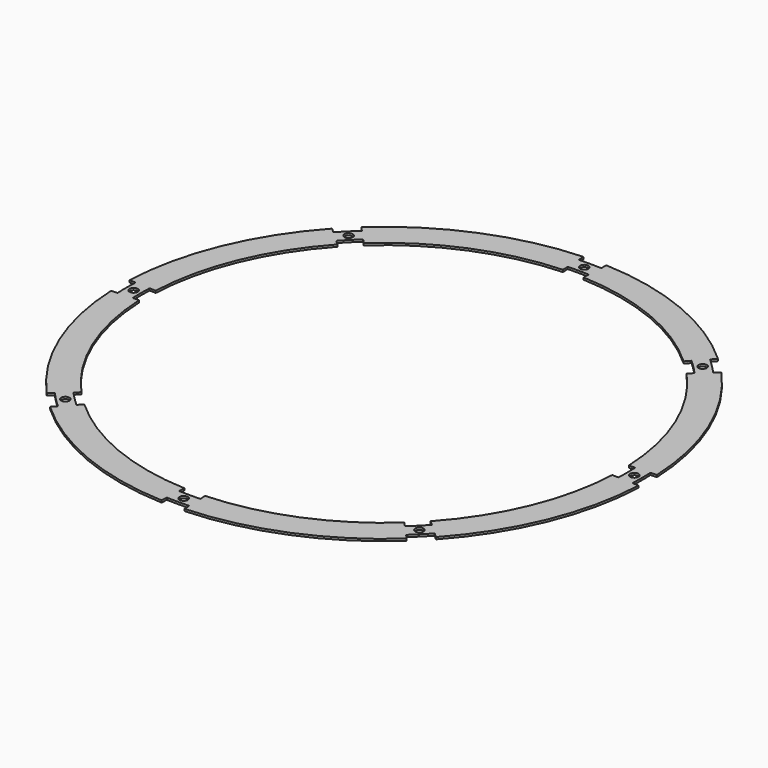
from build123d import *

# Parameters (mm, degrees)
F0_R     = 2
F1_DEPTH = 1


with BuildPart() as f1:
    # F0 (on Top) → F1 (new body)
    with BuildSketch(Plane.XY):
        with BuildLine():
            Line((5.0816586281, 116.3891178143), (5.3869943396, 123.3824553654))
            ThreePointArc((5.3869943396, 123.3824553654), (0, 123.5), (-5.3869943396, 123.3824553654))
            Line((-5.3869943396, 123.3824553654), (-5.0816586281, 116.3891178143))
            ThreePointArc((-5.0816586281, 116.3891178143), (0, 116.5), (5.0816586281, 116.3891178143))
        make_face()
        with Locations((0, 120)):
            Circle(F0_R, mode=Mode.SUBTRACT)
        with BuildLine():
            Line((-78.7062591872, 85.8928097384), (-83.4353906405, 91.0537510961))
            ThreePointArc((-83.4353906405, 91.0537510961), (-87.3276874765, 87.3276874765), (-91.0537510961, 83.4353906405))
            Line((-91.0537510961, 83.4353906405), (-85.8928097384, 78.7062591872))
            ThreePointArc((-85.8928097384, 78.7062591872), (-82.3779400082, 82.3779400082), (-78.7062591872, 85.8928097384))
        make_face()
        with Locations((-84.8528137424, 84.8528137424)):
            Circle(F0_R, mode=Mode.SUBTRACT)
        with BuildLine():
            Line((85.8928097384, 78.7062591872), (91.0537510961, 83.4353906405))
            ThreePointArc((91.0537510961, 83.4353906405), (87.3276874765, 87.3276874765), (83.4353906405, 91.0537510961))
            Line((83.4353906405, 91.0537510961), (78.7062591872, 85.8928097384))
            ThreePointArc((78.7062591872, 85.8928097384), (82.3779400082, 82.3779400082), (85.8928097384, 78.7062591872))
        make_face()
        with Locations((84.8528137424, 84.8528137424)):
            Circle(F0_R, mode=Mode.SUBTRACT)
        with BuildLine():
            ThreePointArc((123.5, 0), (123.4706103444, 2.6941383018), (123.3824553654, 5.3869943396))
            Line((123.3824553654, 5.3869943396), (116.3891178143, 5.0816586281))
            ThreePointArc((116.3891178143, 5.0816586281), (116.4722761548, 2.5414341065), (116.5, 0))
            ThreePointArc((116.5, 0), (116.4722761548, -2.5414341065), (116.3891178143, -5.0816586281))
            Line((116.3891178143, -5.0816586281), (123.3824553654, -5.3869943396))
            ThreePointArc((123.3824553654, -5.3869943396), (123.4706103444, -2.6941383018), (123.5, 0))
        make_face()
        with Locations((120, 0)):
            Circle(F0_R, mode=Mode.SUBTRACT)
        with BuildLine():
            ThreePointArc((83.4353906405, -91.0537510961), (87.3276874765, -87.3276874765), (91.0537510961, -83.4353906405))
            Line((91.0537510961, -83.4353906405), (85.8928097384, -78.7062591872))
            ThreePointArc((85.8928097384, -78.7062591872), (82.3779400082, -82.3779400082), (78.7062591872, -85.8928097384))
            Line((78.7062591872, -85.8928097384), (83.4353906405, -91.0537510961))
        make_face()
        with Locations((84.8528137424, -84.8528137424)):
            Circle(F0_R, mode=Mode.SUBTRACT)
        with BuildLine():
            ThreePointArc((-5.3869943396, -123.3824553654), (0, -123.5), (5.3869943396, -123.3824553654))
            Line((5.3869943396, -123.3824553654), (5.0816586281, -116.3891178143))
            ThreePointArc((5.0816586281, -116.3891178143), (0, -116.5), (-5.0816586281, -116.3891178143))
            Line((-5.0816586281, -116.3891178143), (-5.3869943396, -123.3824553654))
        make_face()
        with Locations((0, -120)):
            Circle(F0_R, mode=Mode.SUBTRACT)
        with BuildLine():
            ThreePointArc((-91.0537510961, -83.4353906405), (-87.3276874765, -87.3276874765), (-83.4353906405, -91.0537510961))
            Line((-83.4353906405, -91.0537510961), (-78.7062591872, -85.8928097384))
            ThreePointArc((-78.7062591872, -85.8928097384), (-82.3779400082, -82.3779400082), (-85.8928097384, -78.7062591872))
            Line((-85.8928097384, -78.7062591872), (-91.0537510961, -83.4353906405))
        make_face()
        with Locations((-84.8528137424, -84.8528137424)):
            Circle(F0_R, mode=Mode.SUBTRACT)
        with BuildLine():
            Line((-116.3891178143, 5.0816586281), (-123.3824553654, 5.3869943396))
            ThreePointArc((-123.3824553654, 5.3869943396), (-123.5, 0), (-123.3824553654, -5.3869943396))
            Line((-123.3824553654, -5.3869943396), (-116.3891178143, -5.0816586281))
            ThreePointArc((-116.3891178143, -5.0816586281), (-116.5, 0), (-116.3891178143, 5.0816586281))
        make_face()
        with Locations((-120, 0)):
            Circle(F0_R, mode=Mode.SUBTRACT)
        with BuildLine():
            ThreePointArc((-84.448775952, 92.1596671013), (-47.8354290456, 115.4849415639), (-5.4524234207, 124.8810276977))
            Line((-5.4524234207, 124.8810276977), (-5.5178525017, 126.3796000301))
            ThreePointArc((-5.5178525017, 126.3796000301), (-48.4094541942, 116.8707608627), (-85.4621612634, 93.2655831065))
            Line((-85.4621612634, 93.2655831065), (-84.448775952, 92.1596671013))
        make_face()
        with BuildLine():
            Line((-5.3869943396, 123.3824553654), (-5.4524234207, 124.8810276977))
            ThreePointArc((-5.4524234207, 124.8810276977), (-47.8354290456, 115.4849415639), (-84.448775952, 92.1596671013))
            Line((-84.448775952, 92.1596671013), (-83.4353906405, 91.0537510961))
            ThreePointArc((-83.4353906405, 91.0537510961), (-47.2614038971, 114.0991222651), (-5.3869943396, 123.3824553654))
        make_face()
        with BuildLine():
            Line((-5.0816586281, 116.3891178143), (-5.3869943396, 123.3824553654))
            ThreePointArc((-5.3869943396, 123.3824553654), (-47.2614038971, 114.0991222651), (-83.4353906405, 91.0537510961))
            Line((-83.4353906405, 91.0537510961), (-78.7062591872, 85.8928097384))
            ThreePointArc((-78.7062591872, 85.8928097384), (-44.5826198705, 107.6319655376), (-5.0816586281, 116.3891178143))
        make_face()
        with BuildLine():
            Line((-5.016229547, 114.8905454819), (-5.0816586281, 116.3891178143))
            ThreePointArc((-5.0816586281, 116.3891178143), (-44.5826198705, 107.6319655376), (-78.7062591872, 85.8928097384))
            Line((-78.7062591872, 85.8928097384), (-77.6928738758, 84.7868937332))
            ThreePointArc((-77.6928738758, 84.7868937332), (-44.008594722, 106.2461462388), (-5.016229547, 114.8905454819))
        make_face()
        with BuildLine():
            ThreePointArc((-76.6794885644, 83.6809777279), (-43.4345695734, 104.86032694), (-4.950800466, 113.3919731495))
            Line((-4.950800466, 113.3919731495), (-5.016229547, 114.8905454819))
            ThreePointArc((-5.016229547, 114.8905454819), (-44.008594722, 106.2461462388), (-77.6928738758, 84.7868937332))
            Line((-77.6928738758, 84.7868937332), (-76.6794885644, 83.6809777279))
        make_face()
        with BuildLine():
            Line((76.6794885644, 83.6809777279), (77.6928738758, 84.7868937332))
            ThreePointArc((77.6928738758, 84.7868937332), (44.008594722, 106.2461462388), (5.016229547, 114.8905454819))
            Line((5.016229547, 114.8905454819), (4.950800466, 113.3919731495))
            ThreePointArc((4.950800466, 113.3919731495), (43.4345695734, 104.86032694), (76.6794885644, 83.6809777279))
        make_face()
        with BuildLine():
            Line((77.6928738758, 84.7868937332), (78.7062591872, 85.8928097384))
            ThreePointArc((78.7062591872, 85.8928097384), (44.5826198705, 107.6319655376), (5.0816586281, 116.3891178143))
            Line((5.0816586281, 116.3891178143), (5.016229547, 114.8905454819))
            ThreePointArc((5.016229547, 114.8905454819), (44.008594722, 106.2461462388), (77.6928738758, 84.7868937332))
        make_face()
        with BuildLine():
            Line((78.7062591872, 85.8928097384), (83.4353906405, 91.0537510961))
            ThreePointArc((83.4353906405, 91.0537510961), (47.2614038971, 114.0991222651), (5.3869943396, 123.3824553654))
            Line((5.3869943396, 123.3824553654), (5.0816586281, 116.3891178143))
            ThreePointArc((5.0816586281, 116.3891178143), (44.5826198705, 107.6319655376), (78.7062591872, 85.8928097384))
        make_face()
        with BuildLine():
            Line((83.4353906405, 91.0537510961), (84.448775952, 92.1596671013))
            ThreePointArc((84.448775952, 92.1596671013), (47.8354290456, 115.4849415639), (5.4524234207, 124.8810276977))
            Line((5.4524234207, 124.8810276977), (5.3869943396, 123.3824553654))
            ThreePointArc((5.3869943396, 123.3824553654), (47.2614038971, 114.0991222651), (83.4353906405, 91.0537510961))
        make_face()
        with BuildLine():
            ThreePointArc((5.4524234207, 124.8810276977), (47.8354290456, 115.4849415639), (84.448775952, 92.1596671013))
            Line((84.448775952, 92.1596671013), (85.4621612634, 93.2655831065))
            ThreePointArc((85.4621612634, 93.2655831065), (48.4094541942, 116.8707608627), (5.5178525017, 126.3796000301))
            Line((5.5178525017, 126.3796000301), (5.4524234207, 124.8810276977))
        make_face()
        with BuildLine():
            Line((113.3919731495, 4.950800466), (114.8905454819, 5.016229547))
            ThreePointArc((114.8905454819, 5.016229547), (106.2461462388, 44.008594722), (84.7868937332, 77.6928738758))
            Line((84.7868937332, 77.6928738758), (83.6809777279, 76.6794885644))
            ThreePointArc((83.6809777279, 76.6794885644), (104.86032694, 43.4345695734), (113.3919731495, 4.950800466))
        make_face()
        with BuildLine():
            Line((114.8905454819, 5.016229547), (116.3891178143, 5.0816586281))
            ThreePointArc((116.3891178143, 5.0816586281), (107.6319655376, 44.5826198705), (85.8928097384, 78.7062591872))
            Line((85.8928097384, 78.7062591872), (84.7868937332, 77.6928738758))
            ThreePointArc((84.7868937332, 77.6928738758), (106.2461462388, 44.008594722), (114.8905454819, 5.016229547))
        make_face()
        with BuildLine():
            Line((116.3891178143, 5.0816586281), (123.3824553654, 5.3869943396))
            ThreePointArc((123.3824553654, 5.3869943396), (114.0991222651, 47.2614038971), (91.0537510961, 83.4353906405))
            Line((91.0537510961, 83.4353906405), (85.8928097384, 78.7062591872))
            ThreePointArc((85.8928097384, 78.7062591872), (107.6319655376, 44.5826198705), (116.3891178143, 5.0816586281))
        make_face()
        with BuildLine():
            Line((123.3824553654, 5.3869943396), (124.8810276977, 5.4524234207))
            ThreePointArc((124.8810276977, 5.4524234207), (115.4849415639, 47.8354290456), (92.1596671013, 84.448775952))
            Line((92.1596671013, 84.448775952), (91.0537510961, 83.4353906405))
            ThreePointArc((91.0537510961, 83.4353906405), (114.0991222651, 47.2614038971), (123.3824553654, 5.3869943396))
        make_face()
        with BuildLine():
            ThreePointArc((92.1596671013, 84.448775952), (115.4849415639, 47.8354290456), (124.8810276977, 5.4524234207))
            Line((124.8810276977, 5.4524234207), (126.3796000301, 5.5178525017))
            ThreePointArc((126.3796000301, 5.5178525017), (116.8707608627, 48.4094541942), (93.2655831065, 85.4621612634))
            Line((93.2655831065, 85.4621612634), (92.1596671013, 84.448775952))
        make_face()
        with BuildLine():
            ThreePointArc((84.7868937332, -77.6928738758), (106.2461462388, -44.008594722), (114.8905454819, -5.016229547))
            Line((114.8905454819, -5.016229547), (113.3919731495, -4.950800466))
            ThreePointArc((113.3919731495, -4.950800466), (104.86032694, -43.4345695734), (83.6809777279, -76.6794885644))
            Line((83.6809777279, -76.6794885644), (84.7868937332, -77.6928738758))
        make_face()
        with BuildLine():
            ThreePointArc((85.8928097384, -78.7062591872), (107.6319655376, -44.5826198705), (116.3891178143, -5.0816586281))
            Line((116.3891178143, -5.0816586281), (114.8905454819, -5.016229547))
            ThreePointArc((114.8905454819, -5.016229547), (106.2461462388, -44.008594722), (84.7868937332, -77.6928738758))
            Line((84.7868937332, -77.6928738758), (85.8928097384, -78.7062591872))
        make_face()
        with BuildLine():
            ThreePointArc((91.0537510961, -83.4353906405), (114.0991222651, -47.2614038971), (123.3824553654, -5.3869943396))
            Line((123.3824553654, -5.3869943396), (116.3891178143, -5.0816586281))
            ThreePointArc((116.3891178143, -5.0816586281), (107.6319655376, -44.5826198705), (85.8928097384, -78.7062591872))
            Line((85.8928097384, -78.7062591872), (91.0537510961, -83.4353906405))
        make_face()
        with BuildLine():
            ThreePointArc((92.1596671013, -84.448775952), (115.4849415639, -47.8354290456), (124.8810276977, -5.4524234207))
            Line((124.8810276977, -5.4524234207), (123.3824553654, -5.3869943396))
            ThreePointArc((123.3824553654, -5.3869943396), (114.0991222651, -47.2614038971), (91.0537510961, -83.4353906405))
            Line((91.0537510961, -83.4353906405), (92.1596671013, -84.448775952))
        make_face()
        with BuildLine():
            Line((126.3796000301, -5.5178525017), (124.8810276977, -5.4524234207))
            ThreePointArc((124.8810276977, -5.4524234207), (115.4849415639, -47.8354290456), (92.1596671013, -84.448775952))
            Line((92.1596671013, -84.448775952), (93.2655831065, -85.4621612634))
            ThreePointArc((93.2655831065, -85.4621612634), (116.8707608627, -48.4094541942), (126.3796000301, -5.5178525017))
        make_face()
        with BuildLine():
            ThreePointArc((5.016229547, -114.8905454819), (44.008594722, -106.2461462388), (77.6928738758, -84.7868937332))
            Line((77.6928738758, -84.7868937332), (76.6794885644, -83.6809777279))
            ThreePointArc((76.6794885644, -83.6809777279), (43.4345695734, -104.86032694), (4.950800466, -113.3919731495))
            Line((4.950800466, -113.3919731495), (5.016229547, -114.8905454819))
        make_face()
        with BuildLine():
            ThreePointArc((5.0816586281, -116.3891178143), (44.5826198705, -107.6319655376), (78.7062591872, -85.8928097384))
            Line((78.7062591872, -85.8928097384), (77.6928738758, -84.7868937332))
            ThreePointArc((77.6928738758, -84.7868937332), (44.008594722, -106.2461462388), (5.016229547, -114.8905454819))
            Line((5.016229547, -114.8905454819), (5.0816586281, -116.3891178143))
        make_face()
        with BuildLine():
            ThreePointArc((5.3869943396, -123.3824553654), (47.2614038971, -114.0991222651), (83.4353906405, -91.0537510961))
            Line((83.4353906405, -91.0537510961), (78.7062591872, -85.8928097384))
            ThreePointArc((78.7062591872, -85.8928097384), (44.5826198705, -107.6319655376), (5.0816586281, -116.3891178143))
            Line((5.0816586281, -116.3891178143), (5.3869943396, -123.3824553654))
        make_face()
        with BuildLine():
            ThreePointArc((5.4524234207, -124.8810276977), (47.8354290456, -115.4849415639), (84.448775952, -92.1596671013))
            Line((84.448775952, -92.1596671013), (83.4353906405, -91.0537510961))
            ThreePointArc((83.4353906405, -91.0537510961), (47.2614038971, -114.0991222651), (5.3869943396, -123.3824553654))
            Line((5.3869943396, -123.3824553654), (5.4524234207, -124.8810276977))
        make_face()
        with BuildLine():
            Line((85.4621612634, -93.2655831065), (84.448775952, -92.1596671013))
            ThreePointArc((84.448775952, -92.1596671013), (47.8354290456, -115.4849415639), (5.4524234207, -124.8810276977))
            Line((5.4524234207, -124.8810276977), (5.5178525017, -126.3796000301))
            ThreePointArc((5.5178525017, -126.3796000301), (48.4094541942, -116.8707608627), (85.4621612634, -93.2655831065))
        make_face()
        with BuildLine():
            ThreePointArc((-4.950800466, -113.3919731495), (-43.4345695734, -104.86032694), (-76.6794885644, -83.6809777279))
            Line((-76.6794885644, -83.6809777279), (-77.6928738758, -84.7868937332))
            ThreePointArc((-77.6928738758, -84.7868937332), (-44.008594722, -106.2461462388), (-5.016229547, -114.8905454819))
            Line((-5.016229547, -114.8905454819), (-4.950800466, -113.3919731495))
        make_face()
        with BuildLine():
            ThreePointArc((-78.7062591872, -85.8928097384), (-44.5826198705, -107.6319655376), (-5.0816586281, -116.3891178143))
            Line((-5.0816586281, -116.3891178143), (-5.016229547, -114.8905454819))
            ThreePointArc((-5.016229547, -114.8905454819), (-44.008594722, -106.2461462388), (-77.6928738758, -84.7868937332))
            Line((-77.6928738758, -84.7868937332), (-78.7062591872, -85.8928097384))
        make_face()
        with BuildLine():
            ThreePointArc((-83.4353906405, -91.0537510961), (-47.2614038971, -114.0991222651), (-5.3869943396, -123.3824553654))
            Line((-5.3869943396, -123.3824553654), (-5.0816586281, -116.3891178143))
            ThreePointArc((-5.0816586281, -116.3891178143), (-44.5826198705, -107.6319655376), (-78.7062591872, -85.8928097384))
            Line((-78.7062591872, -85.8928097384), (-83.4353906405, -91.0537510961))
        make_face()
        with BuildLine():
            ThreePointArc((-84.448775952, -92.1596671013), (-47.8354290456, -115.4849415639), (-5.4524234207, -124.8810276977))
            Line((-5.4524234207, -124.8810276977), (-5.3869943396, -123.3824553654))
            ThreePointArc((-5.3869943396, -123.3824553654), (-47.2614038971, -114.0991222651), (-83.4353906405, -91.0537510961))
            Line((-83.4353906405, -91.0537510961), (-84.448775952, -92.1596671013))
        make_face()
        with BuildLine():
            Line((-5.5178525017, -126.3796000301), (-5.4524234207, -124.8810276977))
            ThreePointArc((-5.4524234207, -124.8810276977), (-47.8354290456, -115.4849415639), (-84.448775952, -92.1596671013))
            Line((-84.448775952, -92.1596671013), (-85.4621612634, -93.2655831065))
            ThreePointArc((-85.4621612634, -93.2655831065), (-48.4094541942, -116.8707608627), (-5.5178525017, -126.3796000301))
        make_face()
        with BuildLine():
            ThreePointArc((-123.3824553654, -5.3869943396), (-114.0991222651, -47.2614038971), (-91.0537510961, -83.4353906405))
            Line((-91.0537510961, -83.4353906405), (-85.8928097384, -78.7062591872))
            ThreePointArc((-85.8928097384, -78.7062591872), (-107.6319655376, -44.5826198705), (-116.3891178143, -5.0816586281))
            Line((-116.3891178143, -5.0816586281), (-123.3824553654, -5.3869943396))
        make_face()
        with BuildLine():
            ThreePointArc((-124.8810276977, -5.4524234207), (-115.4849415639, -47.8354290456), (-92.1596671013, -84.448775952))
            Line((-92.1596671013, -84.448775952), (-91.0537510961, -83.4353906405))
            ThreePointArc((-91.0537510961, -83.4353906405), (-114.0991222651, -47.2614038971), (-123.3824553654, -5.3869943396))
            Line((-123.3824553654, -5.3869943396), (-124.8810276977, -5.4524234207))
        make_face()
        with BuildLine():
            Line((-93.2655831065, -85.4621612634), (-92.1596671013, -84.448775952))
            ThreePointArc((-92.1596671013, -84.448775952), (-115.4849415639, -47.8354290456), (-124.8810276977, -5.4524234207))
            Line((-124.8810276977, -5.4524234207), (-126.3796000301, -5.5178525017))
            ThreePointArc((-126.3796000301, -5.5178525017), (-116.8707608627, -48.4094541942), (-93.2655831065, -85.4621612634))
        make_face()
        with BuildLine():
            ThreePointArc((-84.7868937332, -77.6928738758), (-106.2461462388, -44.008594722), (-114.8905454819, -5.016229547))
            Line((-114.8905454819, -5.016229547), (-116.3891178143, -5.0816586281))
            ThreePointArc((-116.3891178143, -5.0816586281), (-107.6319655376, -44.5826198705), (-85.8928097384, -78.7062591872))
            Line((-85.8928097384, -78.7062591872), (-84.7868937332, -77.6928738758))
        make_face()
        with BuildLine():
            ThreePointArc((-83.6809777279, -76.6794885644), (-104.86032694, -43.4345695734), (-113.3919731495, -4.950800466))
            Line((-113.3919731495, -4.950800466), (-114.8905454819, -5.016229547))
            ThreePointArc((-114.8905454819, -5.016229547), (-106.2461462388, -44.008594722), (-84.7868937332, -77.6928738758))
            Line((-84.7868937332, -77.6928738758), (-83.6809777279, -76.6794885644))
        make_face()
        with BuildLine():
            ThreePointArc((-124.8810276977, 5.4524234207), (-115.4849415639, 47.8354290456), (-92.1596671013, 84.448775952))
            Line((-92.1596671013, 84.448775952), (-93.2655831065, 85.4621612634))
            ThreePointArc((-93.2655831065, 85.4621612634), (-116.8707608627, 48.4094541942), (-126.3796000301, 5.5178525017))
            Line((-126.3796000301, 5.5178525017), (-124.8810276977, 5.4524234207))
        make_face()
        with BuildLine():
            Line((-91.0537510961, 83.4353906405), (-92.1596671013, 84.448775952))
            ThreePointArc((-92.1596671013, 84.448775952), (-115.4849415639, 47.8354290456), (-124.8810276977, 5.4524234207))
            Line((-124.8810276977, 5.4524234207), (-123.3824553654, 5.3869943396))
            ThreePointArc((-123.3824553654, 5.3869943396), (-114.0991222651, 47.2614038971), (-91.0537510961, 83.4353906405))
        make_face()
        with BuildLine():
            Line((-85.8928097384, 78.7062591872), (-91.0537510961, 83.4353906405))
            ThreePointArc((-91.0537510961, 83.4353906405), (-114.0991222651, 47.2614038971), (-123.3824553654, 5.3869943396))
            Line((-123.3824553654, 5.3869943396), (-116.3891178143, 5.0816586281))
            ThreePointArc((-116.3891178143, 5.0816586281), (-107.6319655376, 44.5826198705), (-85.8928097384, 78.7062591872))
        make_face()
        with BuildLine():
            ThreePointArc((-114.8905454819, 5.016229547), (-106.2461462388, 44.008594722), (-84.7868937332, 77.6928738758))
            Line((-84.7868937332, 77.6928738758), (-85.8928097384, 78.7062591872))
            ThreePointArc((-85.8928097384, 78.7062591872), (-107.6319655376, 44.5826198705), (-116.3891178143, 5.0816586281))
            Line((-116.3891178143, 5.0816586281), (-114.8905454819, 5.016229547))
        make_face()
        with BuildLine():
            ThreePointArc((-113.3919731495, 4.950800466), (-104.86032694, 43.4345695734), (-83.6809777279, 76.6794885644))
            Line((-83.6809777279, 76.6794885644), (-84.7868937332, 77.6928738758))
            ThreePointArc((-84.7868937332, 77.6928738758), (-106.2461462388, 44.008594722), (-114.8905454819, 5.016229547))
            Line((-114.8905454819, 5.016229547), (-113.3919731495, 4.950800466))
        make_face()
    extrude(amount=F1_DEPTH)


solid = f1.part
